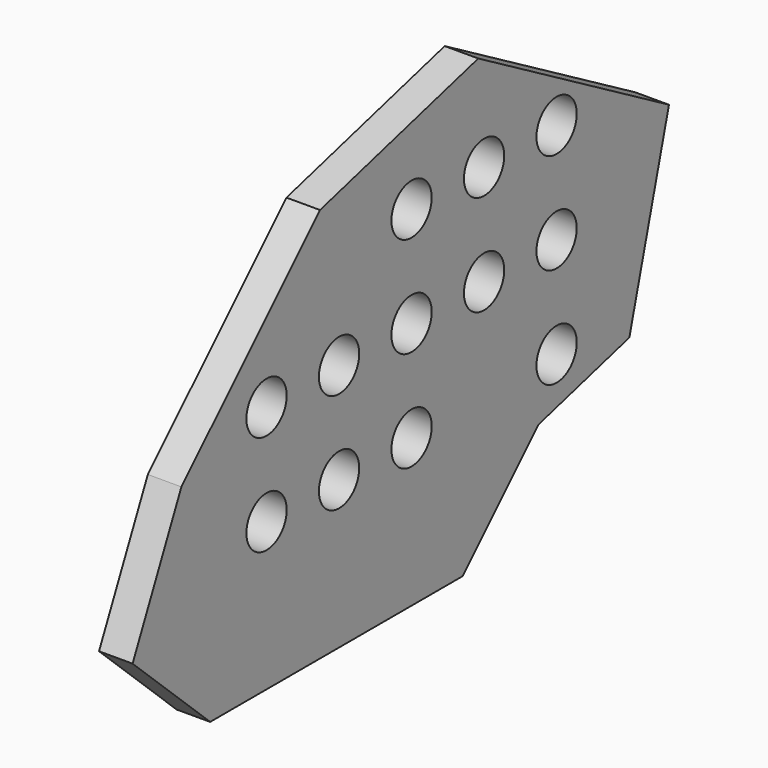
from build123d import *

# Parameters (mm, degrees)
F0_R     = 7.5
F1_DEPTH = 10


with BuildPart() as f1:
    # F0 (on Right) → F1 (new body)
    with BuildSketch(Plane.YZ):
        Polygon((-21, 0), (73, 0), (101.284271, 28.284271), (135.091675, 37.342938), (149.844361, 92.40071), (78.830278, 133.40071), (19.908802, 117.612748), (-31.709993, 65.993953), (-49.882578, 27.022718), align=None)
        with Locations((0, 44)):
            Circle(F0_R, mode=Mode.SUBTRACT)
        with Locations((27, 44)):
            Circle(F0_R, mode=Mode.SUBTRACT)
        with Locations((54, 44)):
            Circle(F0_R, mode=Mode.SUBTRACT)
        with Locations((108, 44)):
            Circle(F0_R, mode=Mode.SUBTRACT)
        with Locations((0, 74)):
            Circle(F0_R, mode=Mode.SUBTRACT)
        with Locations((27, 74)):
            Circle(F0_R, mode=Mode.SUBTRACT)
        with Locations((54, 74)):
            Circle(F0_R, mode=Mode.SUBTRACT)
        with Locations((81, 74)):
            Circle(F0_R, mode=Mode.SUBTRACT)
        with Locations((108, 74)):
            Circle(F0_R, mode=Mode.SUBTRACT)
        with Locations((54, 104)):
            Circle(F0_R, mode=Mode.SUBTRACT)
        with Locations((81, 104)):
            Circle(F0_R, mode=Mode.SUBTRACT)
        with Locations((108, 104)):
            Circle(F0_R, mode=Mode.SUBTRACT)
    extrude(amount=F1_DEPTH)


solid = f1.part
